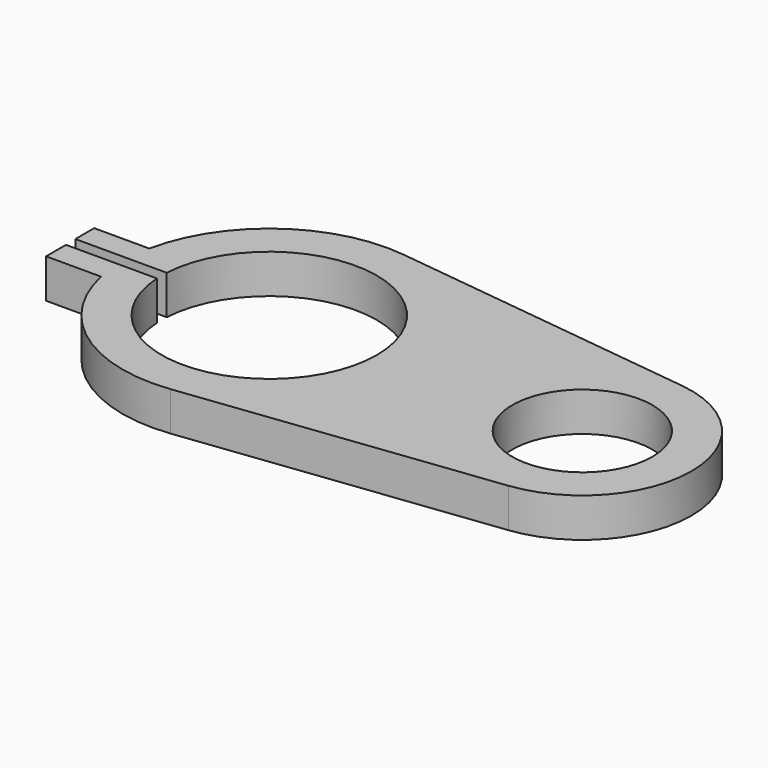
from build123d import *

# Parameters (mm, degrees)
F0_R     = 22.733
F1_DEPTH = 12.7


with BuildPart() as f1:
    # F0 (on Top) → F1 (new body)
    with BuildSketch(Plane.XY):
        with BuildLine():
            Line((105.85196, 35.176957), (5.715, 47.280857))
            ThreePointArc((5.715, 47.280857), (-27.805595, 38.665094), (-46.641362, 9.629331))
            Line((-46.641362, 9.629331), (-64.530931, 9.629331))
            Line((-64.530931, 9.629331), (-64.530931, 1.990377))
            Line((-64.530931, 1.990377), (-47.58339, 1.990377))
            Line((-47.58339, 1.990377), (-34.868238, 1.990377))
            ThreePointArc((-34.868238, 1.990377), (34.925, 0), (-34.868238, -1.990377))
            Line((-34.868238, -1.990377), (-47.58339, -1.990377))
            Line((-47.58339, -1.990377), (-64.386268, -1.990377))
            Line((-64.386268, -1.990377), (-64.386268, -10.064089))
            Line((-64.386268, -10.064089), (-46.549487, -10.064089))
            ThreePointArc((-46.549487, -10.064089), (-27.624912, -38.794392), (5.715, -47.280857))
            Line((5.715, -47.280857), (105.85196, -35.176957))
            ThreePointArc((105.85196, -35.176957), (137.033, 0), (105.85196, 35.176957))
        make_face()
        with Locations((101.6, 0)):
            Circle(F0_R, mode=Mode.SUBTRACT)
    extrude(amount=F1_DEPTH)


solid = f1.part
